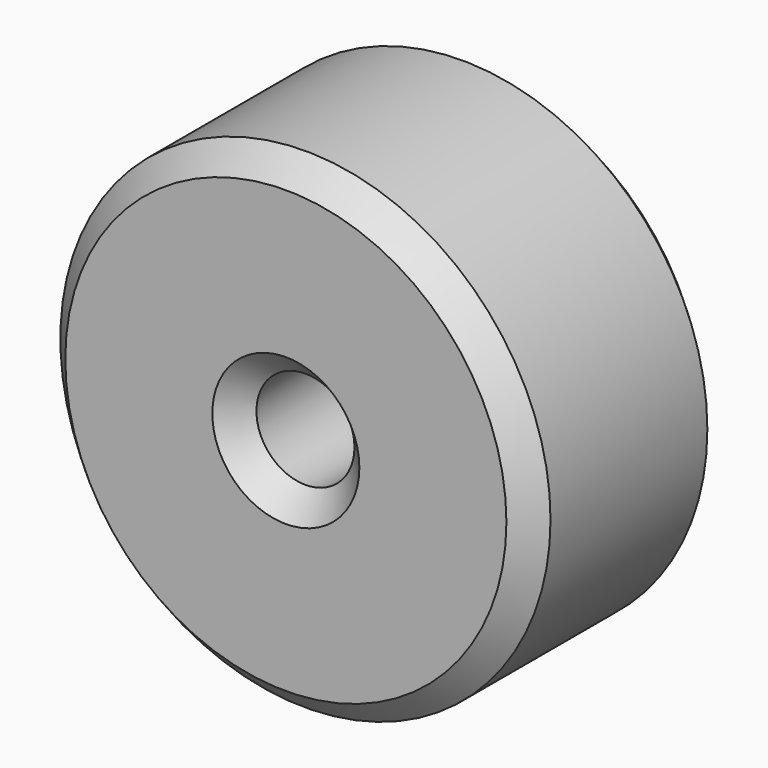
from build123d import *

# Parameters (mm, degrees)
SKETCH_R     = 10
SKETCH_R_2   = 2
PAD_DEPTH    = 10
CHAMFER_SIZE = 1


with BuildPart() as part:
    # Sketch → Pad (new body)
    with BuildSketch(Plane.XZ):
        Circle(SKETCH_R)
        Circle(SKETCH_R_2, mode=Mode.SUBTRACT)
    extrude(amount=PAD_DEPTH)

    # Chamfer
    chamfer_edges = [part.edges().sort_by_distance(p)[0] for p in [
        (-2, -10, 0),
        (-2, 0, 0),
        (-10, -10, 0),
        (-10, 0, 0),
    ]]
    chamfer(chamfer_edges, length=CHAMFER_SIZE)


solid = part.part
